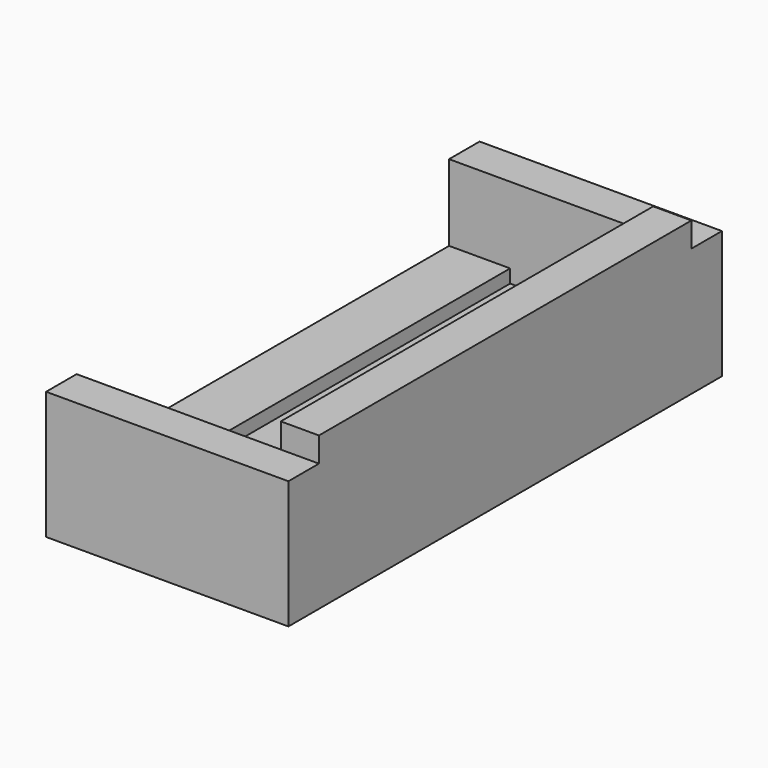
from build123d import *

# Parameters (mm, degrees)
F1_DEPTH = 6.1
F2_DEPTH = 0.65
F3_W     = 6.35
F3_H     = 3.35
F4_DEPTH = 1
F5_W     = 6.35
F5_H     = 3.35
F6_DEPTH = 1
F7_ANGLE = 180
F8_DEPTH = 1


with BuildPart() as f1:
    # F0 (on Front) → F1 (new body, symmetric)
    with BuildSketch(Plane.XZ):
        Polygon((-3.2191018649, 0), (-2.2191018649, 0), (-2.2191018649, 2.65), (-1.6191018649, 2.65), (-1.6191018649, 3), (2.1308981351, 3), (2.1308981351, 0), (3.1308981351, 0), (3.1308981351, 4), (-3.2191018649, 4), align=None)
    extrude(amount=F1_DEPTH, both=True)

    # F2 (cut): a face of the model
    f2_faces = [f1.faces().sort_by_distance(p)[0] for p in [
        (-2.7191018649, 0, 0),
    ]]
    extrude(f2_faces, amount=-F2_DEPTH, mode=Mode.SUBTRACT)

    # F3 (on face) → F4 (join)
    with BuildSketch(Plane.XZ.offset(6.1)):
        with Locations((-0.0441018649, 2.325)):
            Rectangle(F3_W, F3_H)
    extrude(amount=F4_DEPTH)

    # F5 (on face) → F6 (join)
    with BuildSketch(Plane(origin=(0, 6.1, 0), x_dir=(-1, 0, 0), z_dir=(0, 1, 0))):
        with Locations((0.0441018649, 2.325)):
            Rectangle(F5_W, F5_H)
    extrude(amount=F6_DEPTH)


with BuildPart() as f1_1:
    # F7: moved
    add(f1.part.rotate(Axis((-0.0441018649, -7.1, 0.65), (1, 0, 0)), F7_ANGLE))

    # F8 (cut, through all): a face of the model
    f8_faces = [f1_1.faces().sort_by_distance(p)[0] for p in [
        (-2.2191018649, -14.2, -0.35),
    ]]
    extrude(f8_faces, amount=-F8_DEPTH, mode=Mode.SUBTRACT)


solid = f1_1.part
